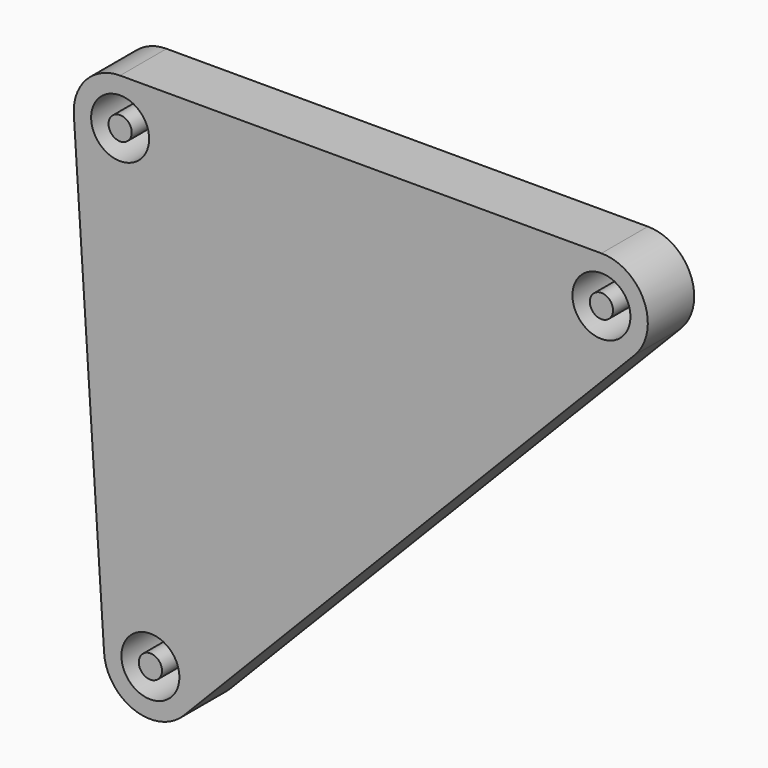
from build123d import *

# Parameters (mm, degrees)
F0_R     = 2.5
F0_R_2   = 1
F1_DEPTH = 5


with BuildPart() as f1:
    # F0 (on Front) → F1 (new body)
    with BuildSketch(Plane.XZ):
        with BuildLine():
            Line((25.79, 6.74), (-15.71, 6.74))
            ThreePointArc((-15.71, 6.74), (-18.629035, 5.474819), (-19.701516, 2.479619))
            Line((-19.701516, 2.479619), (-17.091516, -37.530381))
            ThreePointArc((-17.091516, -37.530381), (-14.482956, -41.023323), (-10.231684, -40.057968))
            Line((-10.231684, -40.057968), (28.61167, -0.095168))
            Line((28.61167, -0.095168), (28.704172, 0))
            ThreePointArc((28.704172, 0), (29.461512, 4.327451), (25.79, 6.74))
        make_face()
        with Locations((-13.1, -37.27)):
            Circle(F0_R, mode=Mode.SUBTRACT)
        with Locations((-15.71, 2.74)):
            Circle(F0_R, mode=Mode.SUBTRACT)
        with Locations((25.79, 2.74)):
            Circle(F0_R, mode=Mode.SUBTRACT)
        with BuildLine():
            ThreePointArc((28.61167, -0.095168), (28.658316, -0.047968), (28.704172, 0))
            Line((28.704172, 0), (28.61167, -0.095168))
        make_face()
        with Locations((-15.71, 2.74)):
            Circle(F0_R_2)
        with Locations((-13.1, -37.27)):
            Circle(F0_R_2)
        with Locations((25.79, 2.74)):
            Circle(F0_R_2)
    extrude(amount=F1_DEPTH)


solid = f1.part
